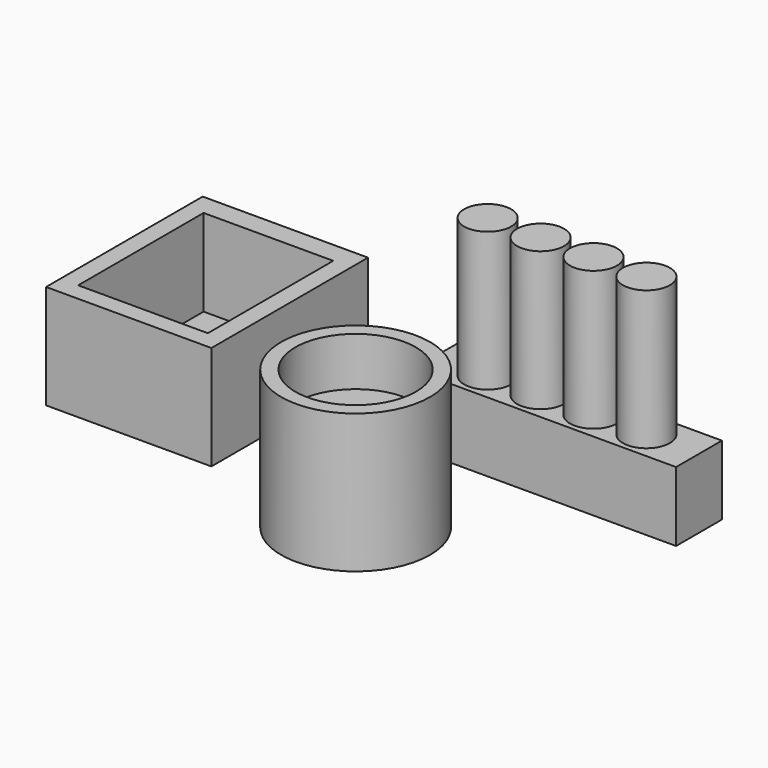
from build123d import *

# Parameters (mm, degrees)
F0_W     = 379.739931
F0_H     = 82.475663
F0_R     = 33.80071
F1_DEPTH = 100
F2_DEPTH = 300
F0_W_2   = 237.852231
F0_H_2   = 281.652451
F0_W_3   = 186.527147
F0_H_3   = 225.523829
F3_DEPTH = 150
F4_DEPTH = 25
F0_R_2   = 107.196642
F0_R_3   = 86.717164
F5_DEPTH = 200
F6_DEPTH = 130


with BuildPart() as f1:
    # F0 (on Top) → F1 (new body)
    with BuildSketch(Plane.XY):
        with Locations((137.66469, 4500.821114)):
            Rectangle(F0_W, F0_H)
        with Locations((23.47642, 4500.821114)):
            Circle(F0_R, mode=Mode.SUBTRACT)
        with Locations((99.601933, 4500.821114)):
            Circle(F0_R, mode=Mode.SUBTRACT)
        with Locations((175.727446, 4500.821114)):
            Circle(F0_R, mode=Mode.SUBTRACT)
        with Locations((251.852959, 4500.821114)):
            Circle(F0_R, mode=Mode.SUBTRACT)
    extrude(amount=F1_DEPTH)

    # F0 (on Top) → F2 (join)
    with BuildSketch(Plane.XY):
        with Locations((251.852959, 4500.821114)):
            Circle(F0_R)
        with Locations((175.727446, 4500.821114)):
            Circle(F0_R)
        with Locations((99.601933, 4500.821114)):
            Circle(F0_R)
        with Locations((23.47642, 4500.821114)):
            Circle(F0_R)
    extrude(amount=F2_DEPTH)


with BuildPart() as f3:
    # F0 (on Top) → F3 (new body)
    with BuildSketch(Plane.XY):
        with Locations((-319.983385, 4425.481319)):
            Rectangle(F0_W_2, F0_H_2)
        with Locations((-319.983385, 4423.07955)):
            Rectangle(F0_W_3, F0_H_3, mode=Mode.SUBTRACT)
        with Locations((-319.983385, 4425.481319)):
            Rectangle(F0_W_2, F0_H_2)
        with Locations((-319.983385, 4423.07955)):
            Rectangle(F0_W_3, F0_H_3, mode=Mode.SUBTRACT)
    extrude(amount=F3_DEPTH)

    # F0 (on Top) → F4 (join)
    with BuildSketch(Plane.XY):
        with Locations((-319.983385, 4423.07955)):
            Rectangle(F0_W_3, F0_H_3)
        with Locations((-319.983385, 4423.07955)):
            Rectangle(F0_W_3, F0_H_3)
    extrude(amount=F4_DEPTH)


with BuildPart() as f5:
    # F0 (on Top) → F5 (new body)
    with BuildSketch(Plane.XY):
        with Locations((18.104587, 4270.047665)):
            Circle(F0_R_2)
        with Locations((18.104587, 4270.047665)):
            Circle(F0_R_3, mode=Mode.SUBTRACT)
    extrude(amount=F5_DEPTH)

    # F0 (on Top) → F6 (join)
    with BuildSketch(Plane.XY):
        with Locations((18.104587, 4270.047665)):
            Circle(F0_R_3)
    extrude(amount=F6_DEPTH)


solid = Compound([f1.part, f3.part, f5.part])
